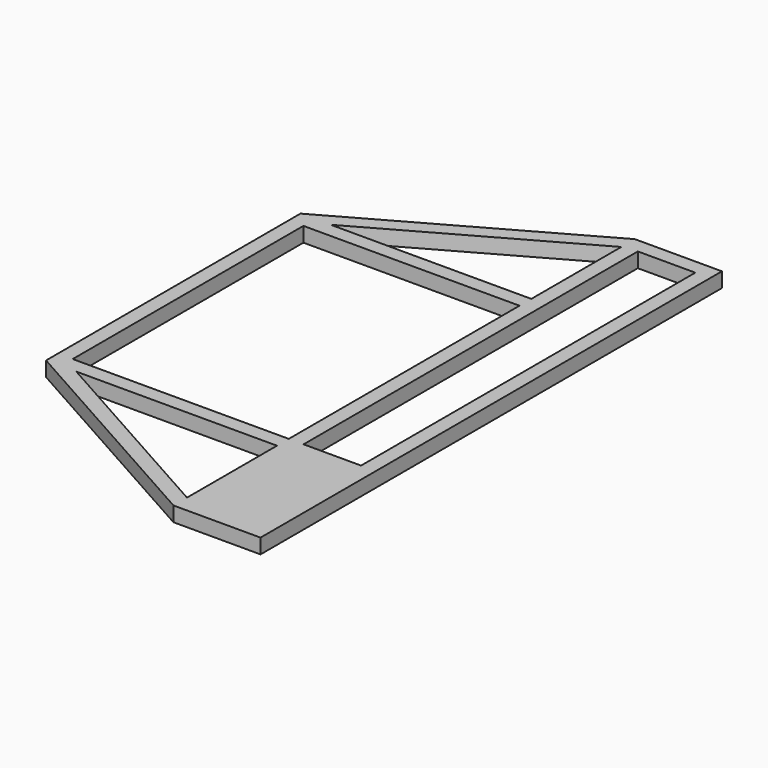
from build123d import *

# Parameters (mm, degrees)
F0_W     = 40
F0_H     = 40
F1_DEPTH = 20


with BuildPart() as f1:
    # F0 (on Top) → F1 (new body, symmetric)
    with BuildSketch(Plane.XY):
        Polygon((-390, -390), (-390, 390), (194.4725817442, 390), (194.4725817442, 430), (-348.1865931569, 430), (-430, 430), (-430, -430), (-348.1865931569, -430), (194.4725817442, -430), (194.4725817442, -390), align=None)
        Polygon((390, 430), (390, 390), (390, 300), (390, -390), (234.4725817442, -390), (234.4725817442, -430), (390, -430), (430, -430), (430, 430), align=None)
        Polygon((-430, 430), (-348.1865931569, 430), (194.4725817442, 734.145797218), (194.4725817442, 780), align=None)
        Polygon((194.4725817442, 780), (194.4725817442, 734.145797218), (204.9176935308, 740), (234.4725817442, 740), (234.4725817442, 780), align=None)
        Polygon((390, 740), (390, 430), (430, 430), (430, 780), (234.4725817442, 780), (234.4725817442, 740), align=None)
        Polygon((194.4725817442, -734.145797218), (-348.1865931569, -430), (-430, -430), (194.4725817442, -780), align=None)
        Polygon((204.9176935308, -740), (194.4725817442, -734.145797218), (194.4725817442, -780), (430, -780), (430, -430), (390, -430), (390, -740), align=None)
        Polygon((234.4725817442, 390), (194.4725817442, 390), (194.4725817442, -390), (234.4725817442, -390), (234.4725817442, -300), align=None)
        Polygon((194.4725817442, 734.145797218), (194.4725817442, 430), (234.4725817442, 430), (234.4725817442, 740), (204.9176935308, 740), align=None)
        Polygon((234.4725817442, -430), (194.4725817442, -430), (194.4725817442, -734.145797218), (204.9176935308, -740), (390, -740), (390, -430), align=None)
        with Locations((214.4725817442, -410)):
            Rectangle(F0_W, F0_H)
        with Locations((214.4725817442, 410)):
            Rectangle(F0_W, F0_H)
    extrude(amount=F1_DEPTH, both=True)


solid = f1.part
